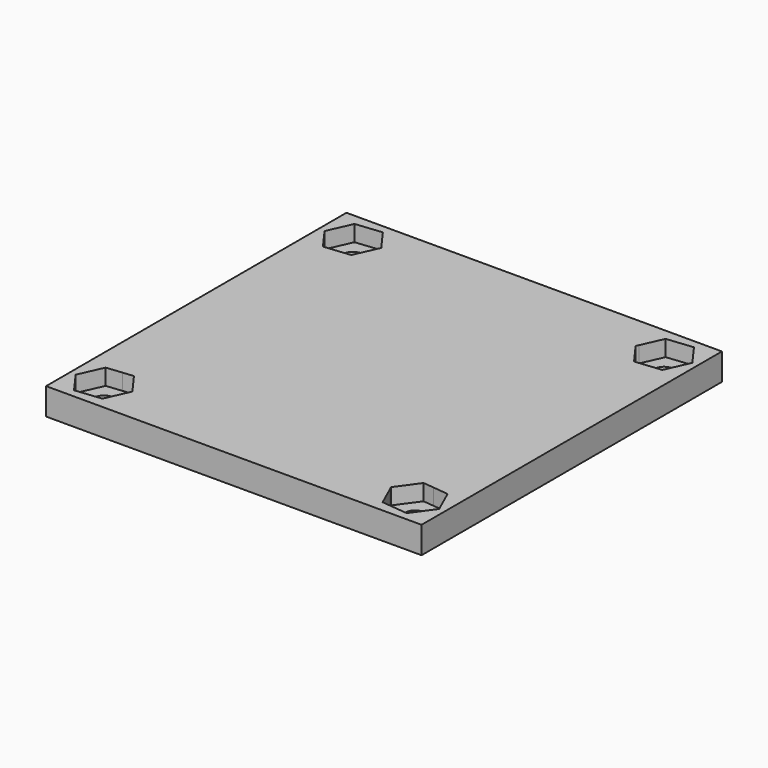
from build123d import *

# Parameters (mm, degrees)
F0_W     = 70
F0_H     = 70
F1_DEPTH = 5
F3_DEPTH = 3
F5_DEPTH = 25


with BuildPart() as f1:
    # F0 (on Top) → F1 (new body)
    with BuildSketch(Plane.XY):
        Rectangle(F0_W, F0_H)
    extrude(amount=F1_DEPTH)

    # F2 (on face) → F3 (cut)
    with BuildSketch(Plane.XY.offset(5)):
        Polygon((-29, -24.727326), (-29, -29), (-24.344364, -29), (-24.118565, -28.495094), (-26.996544, -24.520101), align=None)
        Polygon((-24.344364, -29), (-29, -29), (-29, -24.727326), (-31.877979, -25.025007), (-33.881435, -29.504906), (-31.003456, -33.479899), (-26.122021, -32.974993), align=None)
        Polygon((24.118565, -28.495094), (24.344364, -29), (29, -29), (29, -24.727326), (26.996544, -24.520101), align=None)
        Polygon((29, -29), (24.344364, -29), (26.122021, -32.974993), (31.003456, -33.479899), (33.881435, -29.504906), (31.877979, -25.025007), (29, -24.727326), align=None)
        Polygon((-31.003456, 24.520101), (-29, 24.727326), (-29, 29), (-24.344364, 29), (-24.118565, 29.504906), (-26.996544, 33.479899), (-31.877979, 32.974993), (-33.881435, 28.495094), align=None)
        Polygon((-29, 29), (-29, 24.727326), (-26.122021, 25.025007), (-24.344364, 29), align=None)
        Polygon((26.996544, 24.520101), (29, 24.727326), (29, 29), (24.344364, 29), (24.118565, 28.495094), align=None)
        Polygon((29, 29), (29, 24.727326), (31.877979, 25.025007), (33.881435, 29.504906), (31.003456, 33.479899), (26.122021, 32.974993), (24.344364, 29), align=None)
    extrude(amount=-F3_DEPTH, mode=Mode.SUBTRACT)

    # F4 (on face) → F5 (cut)
    with BuildSketch(Plane.XY.offset(5)):
        with BuildLine():
            Line((-29, -27.125), (-29, -29))
            Line((-29, -29), (-27.125, -29))
            ThreePointArc((-27.125, -29), (-27.674175, -27.674175), (-29, -27.125))
        make_face()
        with BuildLine():
            Line((-27.125, -29), (-29, -29))
            Line((-29, -29), (-29, -27.125))
            ThreePointArc((-29, -27.125), (-30.325825, -30.325825), (-27.125, -29))
        make_face()
        with BuildLine():
            ThreePointArc((29, -27.125), (27.674175, -27.674175), (27.125, -29))
            Line((27.125, -29), (29, -29))
            Line((29, -29), (29, -27.125))
        make_face()
        with BuildLine():
            Line((29, -29), (27.125, -29))
            ThreePointArc((27.125, -29), (29, -30.875), (30.875, -29))
            ThreePointArc((30.875, -29), (30.325825, -27.674175), (29, -27.125))
            Line((29, -27.125), (29, -29))
        make_face()
        with BuildLine():
            ThreePointArc((-27.125, 29), (-30.325825, 30.325825), (-29, 27.125))
            Line((-29, 27.125), (-29, 29))
            Line((-29, 29), (-27.125, 29))
        make_face()
        with BuildLine():
            Line((-29, 29), (-29, 27.125))
            ThreePointArc((-29, 27.125), (-27.674175, 27.674175), (-27.125, 29))
            Line((-27.125, 29), (-29, 29))
        make_face()
        with BuildLine():
            Line((29, 29), (27.125, 29))
            ThreePointArc((27.125, 29), (27.674175, 27.674175), (29, 27.125))
            Line((29, 27.125), (29, 29))
        make_face()
        with BuildLine():
            ThreePointArc((30.875, 29), (29, 30.875), (27.125, 29))
            Line((27.125, 29), (29, 29))
            Line((29, 29), (29, 27.125))
            ThreePointArc((29, 27.125), (30.325825, 27.674175), (30.875, 29))
        make_face()
    extrude(amount=-F5_DEPTH, mode=Mode.SUBTRACT)


solid = f1.part
